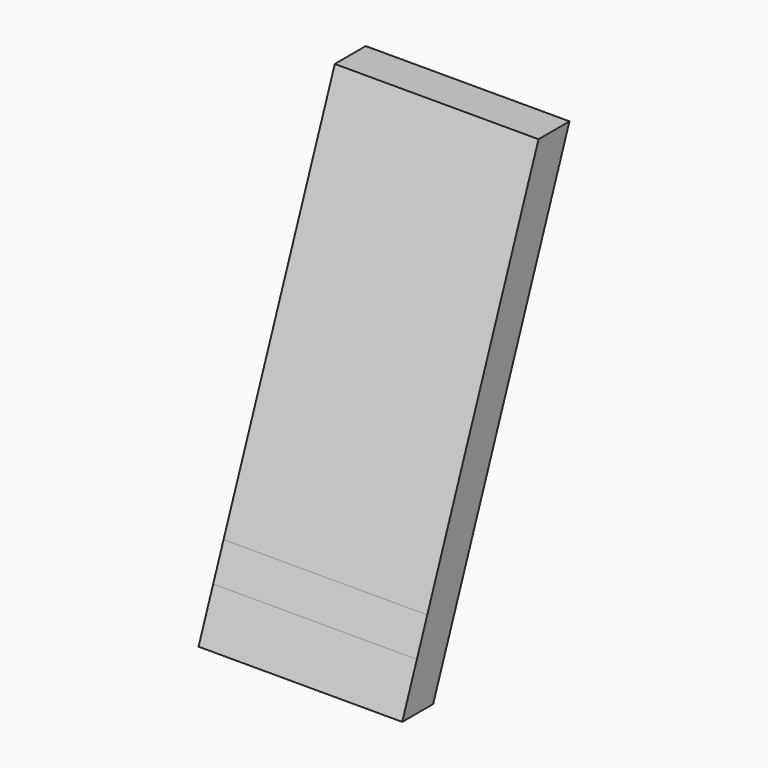
from build123d import *

# Parameters (mm, degrees)
F2_DEPTH = 84


with BuildPart() as f2:
    # F1 (on Right) → F2 (new body)
    with BuildSketch(Plane.YZ):
        Polygon((-59.7275522286, 27.3861704218), (0, 182.9817635935), (-15.9600604052, 182.9817635935), (-73.2989323324, 33.6088953539), align=None)
        Polygon((-65.077982877, 13.4478220484), (-59.7275522286, 27.3861704218), (-73.2989323324, 33.6088953539), (-78.6493629808, 19.6705469804), align=None)
        Polygon((-70.2401181109, 0), (-65.077982877, 13.4478220484), (-78.6493629808, 19.6705469804), (-86.2001785161, 0), align=None)
    extrude(amount=F2_DEPTH)


solid = f2.part
